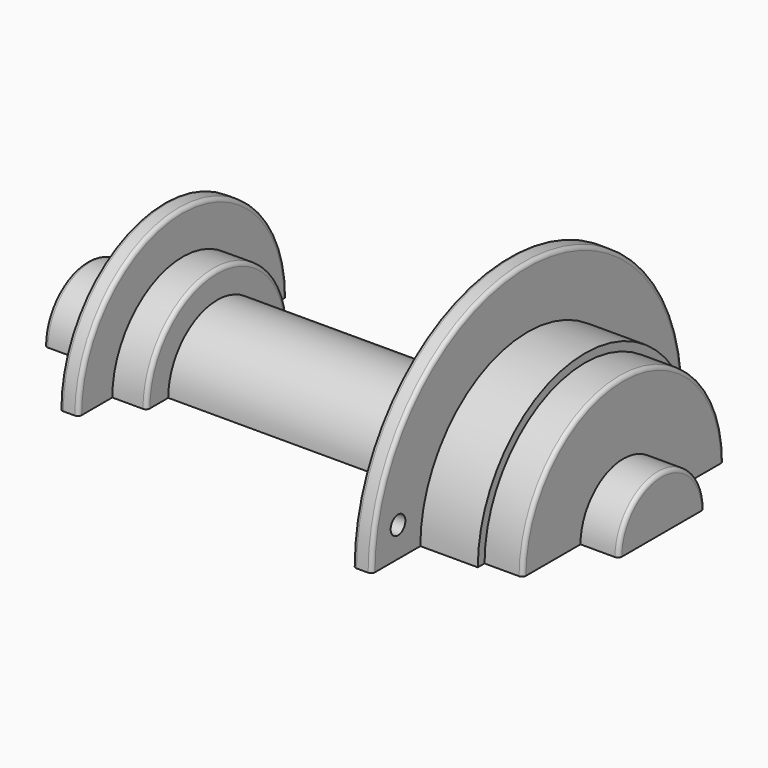
from build123d import *

# Parameters (mm, degrees)
REVOLUTION_ANGLE = 180
SKETCH002_R      = 1.2
POCKET_DEPTH     = 5
SKETCH003_R      = 1.2
POCKET001_DEPTH  = 5
FILLET_R         = 0.5


with BuildPart() as part:
    # Sketch → Revolution (revolve)
    with BuildSketch(Plane.XY):
        Polygon((-37.5, 0), (-37.5, 7), (-27.5, 7), (-27.5, 17), (-25, 17), (-25, 11.5), (-20.5, 11.5), (-20.5, 8), (17.5, 8), (17.5, 25.4), (20, 25.4), (20, 17.5), (27.5, 17.5), (27.5, 16.4), (32.5, 16.4), (32.5, 7), (37.5, 7), (37.5, 0), align=None)
    revolve(axis=Axis((0, 0, 0), (1, 0, 0)), revolution_arc=REVOLUTION_ANGLE)

    # Sketch002 → Pocket (cut)
    with BuildSketch(Plane(origin=(-27.5, 0, 0), x_dir=(0, -1, 0), z_dir=(-1, 0, 0))):
        with Locations((-12.433667, 2.587262)):
            Circle(SKETCH002_R)
    extrude(amount=-POCKET_DEPTH, mode=Mode.SUBTRACT)

    # Sketch003 → Pocket001 (cut)
    with BuildSketch(Plane.YZ.offset(20)):
        with Locations((-21.141078, 3.912139)):
            Circle(SKETCH003_R)
    extrude(amount=-POCKET001_DEPTH, mode=Mode.SUBTRACT)

    # Fillet
    fillet_edges = [part.edges().sort_by_distance(p)[0] for p in [
        (-27.5, 0, 17),
        (-25, 0, 17),
        (-20.5, 0, 11.5),
        (17.5, 0, 25.4),
        (20, 0, 25.4),
        (32.5, 0, 16.4),
        (37.5, 0, 7),
        (-37.5, 0, 7),
    ]]
    fillet(fillet_edges, radius=FILLET_R)


solid = part.part
